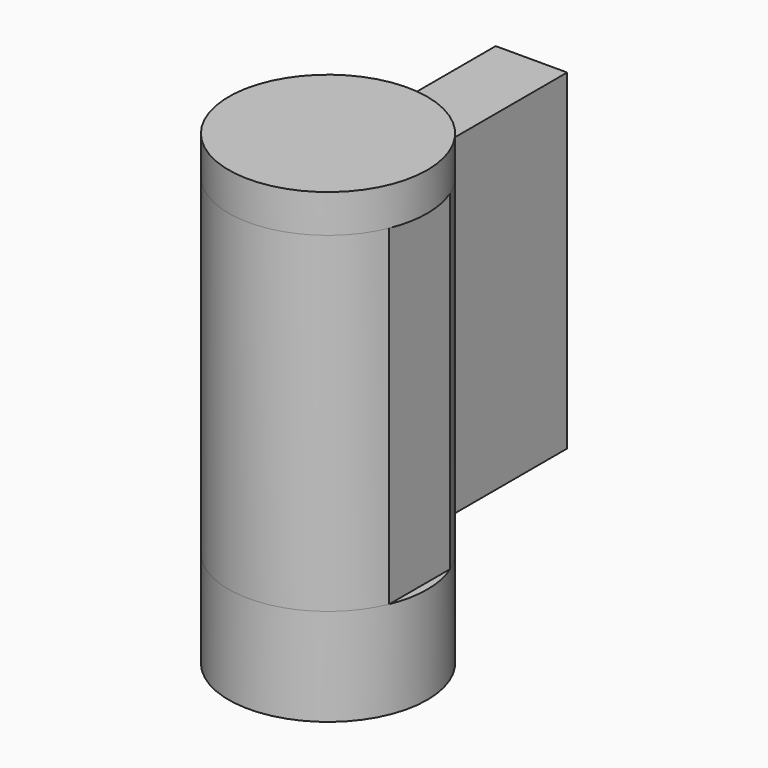
from build123d import *

# Parameters (mm, degrees)
F1_DEPTH = 26.04
F2_R     = 7.81
F3_DEPTH = 3
F4_R     = 7.81
F5_DEPTH = 7.65


with BuildPart() as f1:
    # F0 (on Top) → F1 (new body)
    with BuildSketch(Plane.XY):
        with BuildLine():
            Line((-2.81, 20), (-2.81, 7.286975))
            ThreePointArc((-2.81, 7.286975), (-5.449661, 5.594398), (-7.210832, 3))
            Line((-7.210832, 3), (-7.210832, 0))
            Line((-7.210832, 0), (7.210832, 0))
            Line((7.210832, 0), (7.210832, 3))
            ThreePointArc((7.210832, 3), (5.449661, 5.594398), (2.81, 7.286975))
            Line((2.81, 7.286975), (2.81, 20))
            Line((2.81, 20), (-2.81, 20))
        make_face()
        with BuildLine():
            Line((7.210832, 0), (-7.210832, 0))
            Line((-7.210832, 0), (-7.210832, -3))
            ThreePointArc((-7.210832, -3), (0, -7.81), (7.210832, -3))
            Line((7.210832, -3), (7.210832, 0))
        make_face()
    extrude(amount=F1_DEPTH)

    # F2 (on face) → F3 (join)
    with BuildSketch(Plane.XY.offset(26.04)):
        Circle(F2_R)
    extrude(amount=F3_DEPTH)

    # F4 (on face) → F5 (join)
    with BuildSketch(Plane(origin=(0, 0, 0), x_dir=(1, 0, 0), z_dir=(0, 0, -1))):
        Circle(F4_R)
    extrude(amount=F5_DEPTH)


solid = f1.part
